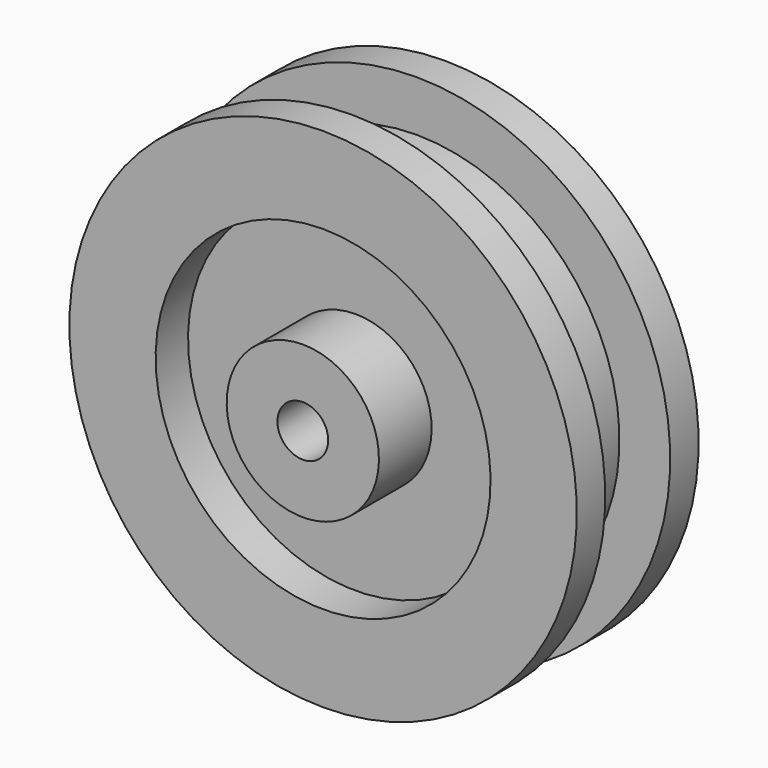
from build123d import *


with BuildPart() as f1:
    # F0 (on Right) → F1 (revolve)
    with BuildSketch(Plane.YZ):
        Polygon((-20, 125), (-37.5, 125), (-37.5, 82.5), (-17.558118, 82.5), (-17.558118, 37.5), (-50, 37.5), (-50, 12.5), (0, 12.5), (50, 12.5), (50, 37.5), (17.558118, 37.5), (17.558118, 82.5), (37.5, 82.5), (37.5, 125), (20, 125), (20, 100), (0, 100), (-20, 100), align=None)
    revolve(axis=Axis((0, -4.137259, 0), (0, 1, 0)))


solid = f1.part
